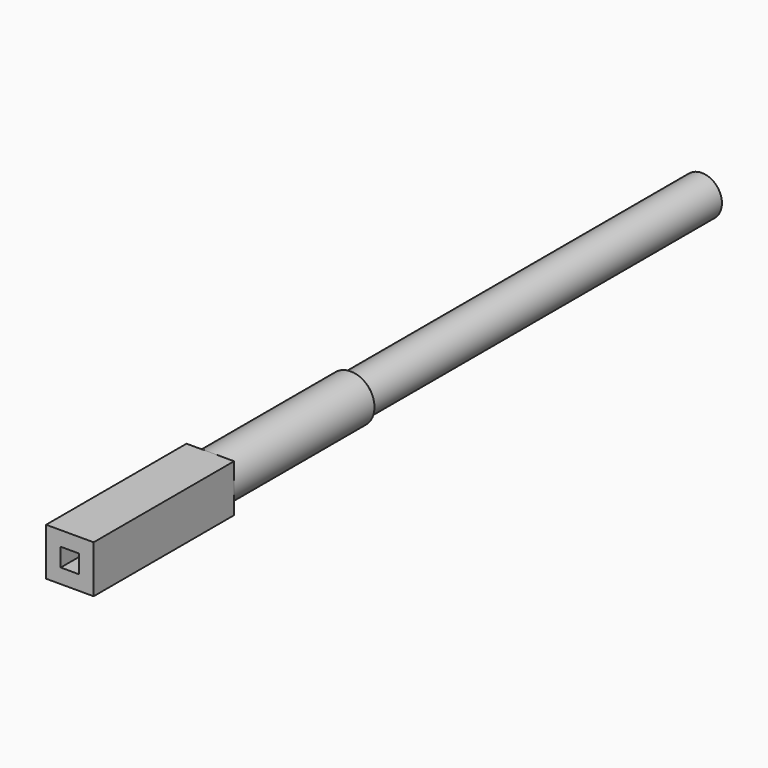
from build123d import *

# Parameters (mm, degrees)
F0_W     = 82.55
F0_H     = 82.55
F0_W_2   = 31.75
F0_H_2   = 31.75
F1_DEPTH = 304.8
F2_R     = 38.1
F3_DEPTH = 304.8
F4_R     = 34.925
F4_R_2   = 30.48
F5_DEPTH = 762
F6_R     = 38.1
F6_R_2   = 30.48
F7_DEPTH = 3.175


with BuildPart() as f1:
    # F0 (on Front) → F1 (new body)
    with BuildSketch(Plane.XZ):
        with Locations((15.875, 15.875)):
            Rectangle(F0_W, F0_H)
        with Locations((15.875, 15.875)):
            Rectangle(F0_W_2, F0_H_2, mode=Mode.SUBTRACT)
    extrude(amount=-F1_DEPTH)

    # F2 (on face) → F3 (join)
    with BuildSketch(Plane(origin=(0, 304.8, 0), x_dir=(-1, 0, 0), z_dir=(0, 1, 0))):
        with BuildLine():
            ThreePointArc((-15.8749998581, -25.4), (13.3108324437, -13.3108323433), (25.4, 15.875))
            ThreePointArc((25.4, 15.875), (13.3108323935, 45.0608323935), (-15.875, 57.15))
            ThreePointArc((-15.875, 57.15), (-45.0608324126, 45.0608323743), (-57.15, 15.8749999458))
            ThreePointArc((-57.15, 15.8749999458), (-45.0608323241, -13.3108324628), (-15.8749998581, -25.4))
        make_face()
        with Locations((-15.875, 15.875)):
            Circle(F2_R, mode=Mode.SUBTRACT)
    extrude(amount=F3_DEPTH)



with BuildPart() as f5:
    # F4 (on face) → F5 (new body)
    with BuildSketch(Plane(origin=(0, 609.6, 0), x_dir=(-1, 0, 0), z_dir=(0, 1, 0))):
        with Locations((-15.875, 15.875)):
            Circle(F4_R)
        with Locations((-15.875, 15.875)):
            Circle(F4_R_2, mode=Mode.SUBTRACT)
    extrude(amount=F5_DEPTH)


with BuildPart() as f1_1:
    add(f1.part)

    add(f5.part)  # F7 merges F5
    # F6 (on face) → F7 (join, symmetric)
    with BuildSketch(Plane(origin=(0, 609.6, 0), x_dir=(-1, 0, 0), z_dir=(0, 1, 0))):
        with Locations((-15.875, 15.875)):
            Circle(F6_R)
        with Locations((-15.875, 15.875)):
            Circle(F6_R_2, mode=Mode.SUBTRACT)
    extrude(amount=F7_DEPTH, both=True)


solid = f1_1.part
